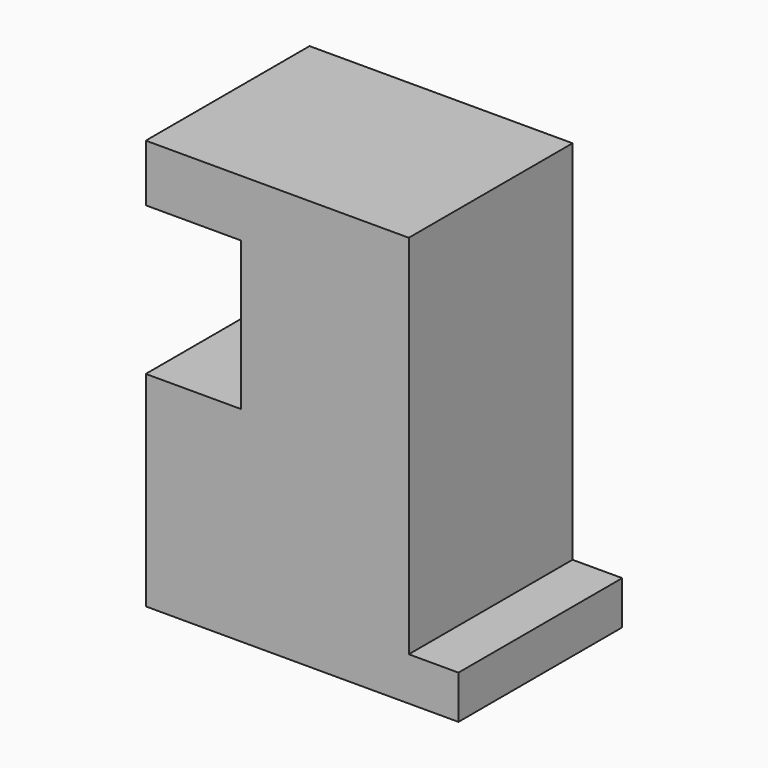
from build123d import *

# Parameters (mm, degrees)
F0_W     = 3.81
F0_H     = 3.3274
F1_DEPTH = 15.6972


with BuildPart() as f1:
    # F0 (on Front) → F1 (new body)
    with BuildSketch(Plane.XZ):
        Polygon((-23.295, -7.920529), (-23.295, -23.617729), (-3.1274, -23.617729), (-3.1274, -20.290329), (-3.1274, 7.827471), (-12.922701, 7.827471), (-15.9798, 7.827471), (-23.295, 7.827471), (-23.295, 3.458671), (-15.9798, 3.458671), (-15.9798, -7.920529), align=None)
        with Locations((-1.2224, -21.954029)):
            Rectangle(F0_W, F0_H)
    extrude(amount=F1_DEPTH)


solid = f1.part
